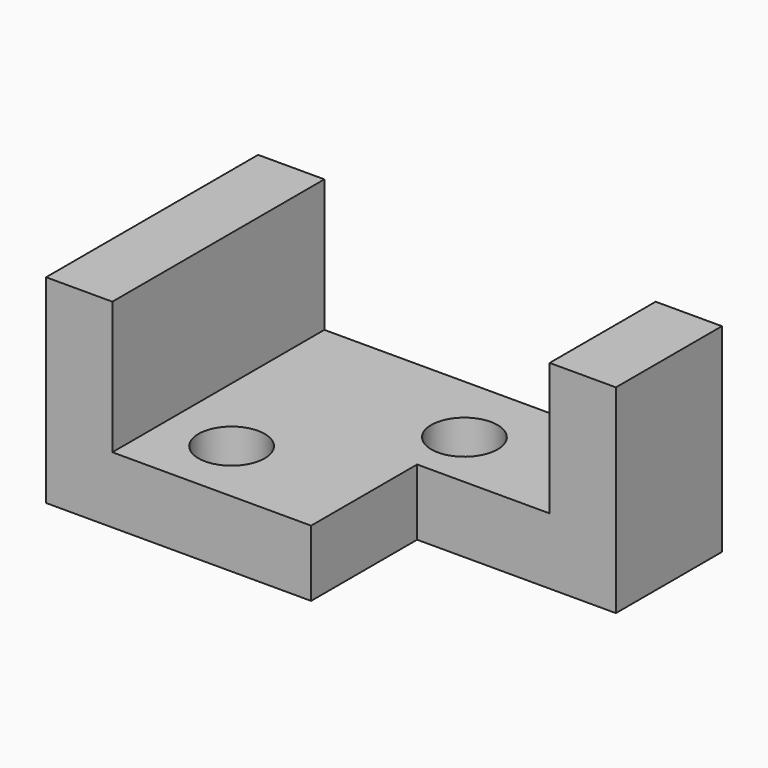
from build123d import *

# Parameters (mm, degrees)
F0_W     = 88.9
F0_H     = 38.1
F1_DEPTH = 50.8
F2_W     = 63.5
F2_H     = 25.4
F3_DEPTH = 50.801
F4_W     = 38.1
F4_H     = 25.4
F5_DEPTH = 38.101
F6_R     = 6.35
F7_DEPTH = 12.701
F8_R     = 6.35
F9_DEPTH = 12.701


with BuildPart() as f1:
    # F0 (on Front) → F1 (new body)
    with BuildSketch(Plane.XZ):
        Rectangle(F0_W, F0_H)
    extrude(amount=F1_DEPTH)

    # F2 (on face) → F3 (cut, through all)
    with BuildSketch(Plane.XZ.offset(50.8)):
        with Locations((0, 6.35)):
            Rectangle(F2_W, F2_H)
    extrude(amount=-F3_DEPTH, mode=Mode.SUBTRACT)

    # F4 (on face) → F5 (cut, through all)
    with BuildSketch(Plane.XY.offset(19.05)):
        with Locations((25.4, -38.1)):
            Rectangle(F4_W, F4_H)
    extrude(amount=-F5_DEPTH, mode=Mode.SUBTRACT)

    # F6 (on face) → F7 (cut, through all)
    with BuildSketch(Plane.XY.offset(-6.35)):
        with Locations((-19.05, -38.1)):
            Circle(F6_R)
    extrude(amount=-F7_DEPTH, mode=Mode.SUBTRACT)

    # F8 (on face) → F9 (cut, through all)
    with BuildSketch(Plane.XY.offset(-6.35)):
        with Locations((6.35, -14.073397)):
            Circle(F8_R)
    extrude(amount=-F9_DEPTH, mode=Mode.SUBTRACT)


solid = f1.part
